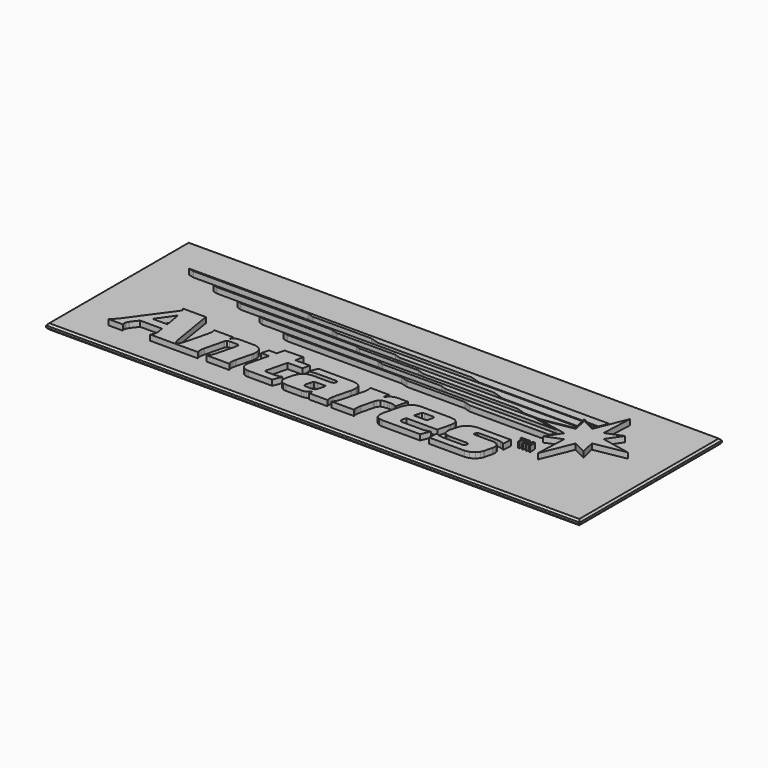
from build123d import *

# Parameters (mm, degrees)
F0_W     = 152.4
F0_H     = 50.8
F1_DEPTH = 1.5875
F3_DEPTH = 1.5875
F4_SIZE  = 0.508
F5_SIZE  = 0.508


with BuildPart() as f1:
    # F0 (on Top) → F1 (new body)
    with BuildSketch(Plane.XY):
        Rectangle(F0_W, F0_H)
    extrude(amount=F1_DEPTH)

    # F2 (on face) → F3 (join)
    with BuildSketch(Plane.XY.offset(1.5875)):
        Polygon((-3.144647, -6.939077), (-3.535807, -6.939077), (-13.168503, -6.939077), (-14.176121, -9.447098), (-13.999591, -9.368536), (-13.172821, -9.105367), (-12.263247, -8.999245), (-11.958447, -8.999245), (-6.693281, -8.999245), (-6.522085, -8.999245), (-6.008243, -9.159088), (-5.935091, -9.553219), (-5.964047, -9.67171), (-5.995797, -9.794392), (-6.264529, -10.192639), (-6.837807, -10.344226), (-7.028053, -10.344226), (-11.844147, -10.344226), (-12.225909, -10.344226), (-13.369671, -10.531627), (-14.451457, -11.110392), (-15.188819, -12.101195), (-15.595219, -13.159537), (-15.684881, -13.524713), (-15.875127, -14.286789), (-15.961741, -14.634032), (-16.088487, -15.710281), (-15.844647, -16.70111), (-15.053691, -17.279874), (-13.980287, -17.468672), (-13.621893, -17.468672), (-9.858375, -17.468672), (-9.629775, -17.468672), (-8.943721, -17.417694), (-8.288909, -17.238548), (-7.809357, -16.881627), (-7.499477, -16.455822), (-7.416419, -16.302838), (-7.372477, -16.302838), (-7.393305, -17.468672), (-2.107057, -17.468672), (-2.146935, -17.387367), (-2.236597, -17.131055), (-2.297303, -16.7259), (-2.268347, -16.198113), (-2.173097, -15.668955), (-2.129155, -15.496692), (-0.983869, -10.903687), (-0.872363, -10.454462), (-0.723519, -9.064015), (-1.040257, -7.837551), (-1.967865, -7.151294), align=None)
        Polygon((-9.130919, -12.40851), (-8.998585, -12.405741), (-6.646291, -12.405741), (-7.020941, -13.906424), (-7.072249, -14.107617), (-7.254113, -14.707083), (-7.515987, -15.160447), (-7.902829, -15.360269), (-8.361807, -15.407107), (-8.514969, -15.407107), (-9.746869, -15.407107), (-9.873615, -15.402992), (-10.252837, -15.364384), (-10.568305, -15.236266), (-10.697591, -14.96888), (-10.671429, -14.621662), (-10.643997, -14.511401), (-10.341991, -13.301497), (-10.313035, -13.182956), (-10.166985, -12.842596), (-9.903841, -12.575261), (-9.525127, -12.447092), align=None, mode=Mode.SUBTRACT)
        Polygon((16.798163, -14.33228), (17.044797, -13.345592), (25.894665, -13.345592), (26.699591, -10.119614), (26.784935, -9.772345), (26.911681, -8.696071), (26.667841, -7.705268), (25.875615, -7.126503), (24.801957, -6.939077), (24.445087, -6.939077), (16.402685, -6.939077), (16.020923, -6.939077), (14.877415, -7.126503), (13.796645, -7.705268), (13.058521, -8.696071), (12.651613, -9.754413), (12.561951, -10.119614), (11.523091, -14.286789), (11.436223, -14.632661), (11.309731, -15.708909), (11.553571, -16.699713), (12.344273, -17.279874), (13.417931, -17.468672), (13.776325, -17.468672), (24.305641, -17.468672), (25.335103, -14.959254), (25.098375, -15.054326), (24.103203, -15.325827), (23.143845, -15.407107), (22.825837, -15.407107), (17.740757, -15.407107), (17.607153, -15.407107), (17.210151, -15.345131), (16.886301, -15.154935), (16.754221, -14.821459), (16.772001, -14.450771), align=None)
        Polygon((21.613241, -9.850857), (21.254847, -11.285398), (17.558893, -11.285398), (17.915763, -9.850857), (17.953101, -9.699269), (18.241137, -9.197696), (18.727547, -8.999245), (18.890107, -8.999245), (21.063331, -8.999245), (21.199729, -8.999245), (21.613241, -9.197696), (21.650325, -9.699269), align=None, mode=Mode.SUBTRACT)
        Polygon((-60.262999, -15.586253), (-58.809204, -13.614298), (-52.512925, -13.614298), (-52.187704, -15.451201), (-52.173937, -15.529763), (-52.23317, -16.443401), (-52.253845, -16.527475), (-52.274521, -16.606012), (-52.406804, -16.913327), (-52.701723, -17.33362), (-52.802307, -17.468672), (-45.635139, -17.468672), (-45.621528, -17.452069), (-45.70128, -17.33362), (-46.078851, -16.557777), (-46.342071, -15.68135), (-46.373771, -15.496692), (-48.396728, -3.130194), (-54.872128, -3.130194), (-54.446322, -3.93634), (-62.392077, -14.869693), (-62.522989, -15.050211), (-62.924004, -15.58351), (-63.409068, -16.167811), (-63.956159, -16.753459), (-64.49634, -17.290898), (-64.676858, -17.468672), (-60.621316, -17.468672), (-60.664039, -17.344644), (-60.759111, -16.953281), (-60.709505, -16.560546), (-60.677781, -16.437889), (-60.659874, -16.364864), (-60.314002, -15.652394), align=None)
        Polygon((-53.693924, -6.400267), (-52.861566, -11.239932), (-57.096279, -11.239932), align=None, mode=Mode.SUBTRACT)
        Polygon((-45.621528, -17.452069), (-45.610348, -17.468672), (-39.181659, -17.468672), (-39.216203, -17.36946), (-39.307135, -17.067657), (-39.375969, -16.603269), (-39.344473, -15.965246), (-39.217727, -15.274823), (-39.161085, -15.04884), (-37.871273, -9.872904), (-37.831395, -9.710318), (-37.508815, -9.192158), (-36.961699, -8.999245), (-36.778565, -8.999245), (-34.851975, -8.999245), (-34.695003, -8.999245), (-34.220785, -9.192158), (-34.157539, -9.713062), (-34.196147, -9.872904), (-35.487229, -15.04884), (-35.545141, -15.280361), (-35.762819, -15.965246), (-36.049585, -16.603269), (-36.349813, -17.067657), (-36.591113, -17.36946), (-36.672393, -17.468672), (-30.220285, -17.468672), (-30.254829, -17.36946), (-30.346015, -17.067657), (-30.414849, -16.603269), (-30.383099, -15.965246), (-30.256353, -15.274823), (-30.199457, -15.04884), (-29.133165, -10.770032), (-29.038169, -10.38418), (-28.935807, -9.178392), (-29.261181, -7.971231), (-30.163897, -7.206412), (-31.313247, -6.939077), (-31.695009, -6.939077), (-35.973639, -6.939077), (-36.217733, -6.939077), (-36.945189, -7.284974), (-37.518467, -7.900949), (-37.613463, -8.036001), (-37.658929, -8.036001), (-37.541835, -6.939077), (-43.008601, -6.939077), (-42.976876, -7.036943), (-42.885944, -7.338695), (-42.815662, -7.803083), (-42.847387, -8.441131), (-42.972761, -9.131554), (-43.029276, -9.358909), (-44.448628, -15.04884), (-44.50654, -15.280361), (-44.724269, -15.965246), (-45.010908, -16.603269), (-45.31266, -17.067657), (-45.553808, -17.36946), align=None)
        Polygon((-19.229197, -4.652924), (-24.549735, -4.787976), (-25.087199, -6.939077), (-27.349831, -6.939077), (-27.863927, -8.999245), (-25.601041, -8.999245), (-26.891107, -14.17513), (-26.946225, -14.394256), (-27.049603, -15.068118), (-27.042491, -15.794355), (-26.889837, -16.369005), (-26.609929, -16.804462), (-26.219785, -17.117263), (-25.738963, -17.322597), (-25.185243, -17.43423), (-24.729059, -17.468672), (-24.575897, -17.468672), (-17.944719, -17.468672), (-16.993997, -15.003348), (-17.062831, -15.030907), (-17.713325, -15.247264), (-18.677763, -15.407107), (-18.998819, -15.407107), (-20.858099, -15.407107), (-20.997291, -15.407107), (-21.410549, -15.368549), (-21.694521, -15.233472), (-21.771737, -14.971674), (-21.724747, -14.657451), (-21.698585, -14.555495), (-20.313777, -8.999245), (-16.102457, -8.999245), (-15.587091, -6.939077), (-19.799681, -6.939077), align=None)
        Polygon((6.680581, -8.640953), (6.925945, -6.939077), (1.639697, -6.939077), (1.671447, -7.036943), (1.762379, -7.338695), (1.831213, -7.803083), (1.799971, -8.441131), (1.674241, -9.131554), (1.617853, -9.358909), (0.198247, -15.04884), (0.140335, -15.280361), (-0.077343, -15.965246), (-0.362331, -16.603269), (-0.664337, -17.067657), (-0.905129, -17.36946), (-0.986663, -17.468672), (5.465191, -17.468672), (5.432171, -17.36946), (5.341493, -17.067657), (5.272151, -16.603269), (5.303901, -15.965246), (5.429631, -15.274823), (5.486019, -15.04884), (6.330569, -11.665763), (6.386957, -11.438357), (6.646291, -10.779658), (7.149465, -10.231222), (7.975981, -9.950094), (8.942197, -9.872904), (9.264523, -9.872904), (9.500235, -9.872904), (10.208387, -9.899117), (10.799699, -9.987305), (11.202035, -10.147173), (11.484737, -10.324922), (11.576685, -10.388321), (12.438253, -6.939077), (9.861169, -6.939077), (9.595231, -6.939077), (8.797163, -7.028637), (7.989697, -7.319442), (7.335393, -7.845806), (6.862699, -8.431505), (6.726047, -8.640953), align=None)
        Polygon((39.136193, -10.07552), (38.784657, -10.07552), (34.213673, -10.07552), (34.081593, -10.07552), (33.686115, -9.976282), (33.577403, -9.754413), (33.592643, -9.693758), (33.704149, -9.24593), (33.719135, -9.183903), (33.939607, -8.962034), (34.371153, -8.865591), (34.515679, -8.865591), (38.615493, -8.865591), (38.849681, -8.865591), (39.556563, -8.901405), (40.448103, -9.018549), (41.163621, -9.23351), (41.517443, -9.453982), (41.579419, -9.560103), (41.784651, -6.939077), (32.689673, -6.939077), (32.334073, -6.939077), (31.267781, -7.132015), (30.078553, -7.677709), (29.192347, -8.525205), (28.751403, -9.336862), (28.679775, -9.626244), (28.172537, -11.665763), (28.125801, -11.897258), (28.071953, -12.608306), (28.285821, -13.418617), (29.000831, -13.983614), (30.054931, -14.197203), (30.407737, -14.197203), (35.000819, -14.197203), (35.130359, -14.197203), (35.518979, -14.317091), (35.580701, -14.654708), (35.556063, -14.756689), (35.499675, -14.981301), (35.472243, -15.087422), (35.243135, -15.419527), (34.809303, -15.540787), (34.666047, -15.540787), (30.208093, -15.540787), (29.918787, -15.540787), (29.050615, -15.509088), (28.258135, -15.405735), (27.653107, -15.219705), (27.208099, -15.011603), (27.064843, -14.935835), (26.837259, -17.468672), (36.649025, -17.468672), (37.034597, -17.468672), (38.195123, -17.223384), (39.331773, -16.582593), (40.088693, -15.691002), (40.437181, -14.949627), (40.501951, -14.690547), (41.026969, -12.583516), (41.071165, -12.354763), (41.121965, -11.651971), (40.907081, -10.849966), (40.190547, -10.287711), align=None)
        Polygon((-31.661735, 12.43744), (-29.783659, 11.879402), (-13.099669, 11.879402), (-10.712831, 11.133912), (16.116173, 11.133912), (18.818479, 10.29749), (48.527843, 10.29749), (48.522001, 10.322128), (48.353853, 11.038916), (49.013999, 10.715066), (49.864391, 10.29749), (52.985543, 10.29876), (54.005353, 12.80955), (-65.937765, 12.80955), (-64.415035, 12.43744), align=None)
        Polygon((46.902751, 0.339725), (47.906051, 1.827987), (-30.197171, 1.827987), (-28.748609, 1.457325), (3.896995, 1.457325), (5.793359, 0.897814), (22.387687, 0.897814), (24.250523, 0.339725), align=None)
        Polygon((-22.610953, 9.645726), (-20.709255, 9.040698), (-3.912235, 9.040698), (-2.240915, 8.528126), (24.688673, 8.528126), (27.858593, 7.505522), (49.184941, 7.505522), (48.593629, 10.017582), (-56.732475, 10.017582), (-55.388866, 9.645726), align=None)
        Polygon((-5.140071, 4.24782), (-3.401187, 3.689731), (13.408279, 3.689731), (15.202535, 3.131617), (46.625891, 3.131617), (40.792781, 4.280916), (39.068629, 4.619904), (-39.200963, 4.619904), (-38.047549, 4.24782), align=None)
        Polygon((-13.325475, 6.828866), (-12.041251, 6.387922), (4.672965, 6.387922), (6.751193, 5.737428), (33.586801, 5.737428), (36.256087, 4.923079), (40.566721, 4.923079), (40.796845, 4.96443), (49.415065, 6.52432), (49.249457, 7.227138), (-47.60021, 7.227138), (-46.36549, 6.853758), align=None)
        Polygon((65.937765, 4.622648), (57.686321, 6.24746), (60.520707, 10.402138), (55.900193, 8.545906), (56.270779, 17.468672), (52.650771, 8.545906), (48.861091, 10.402138), (49.837975, 6.24746), (40.860091, 4.622648), (49.112043, 2.996565), (46.335315, -1.126515), (50.896393, 0.697992), (50.525807, -8.22894), (54.147085, 0.697992), (57.891553, -1.126515), (56.959881, 2.996565), align=None)
        Polygon((50.437669, 10.017582), (52.468653, 9.022664), (52.872513, 10.017582), align=None)
        Polygon((44.543853, -4.972609), (44.543853, -4.652924), (42.934001, -4.652924), (42.934001, -4.972609), (43.544871, -4.972609), (43.544871, -6.582156), (43.927903, -6.582156), (43.927903, -4.972609), align=None)
        Polygon((-45.621528, -17.452069), (-45.635139, -17.468672), (-45.610348, -17.468672), align=None)
        Polygon((46.557057, -5.446674), (46.628685, -6.582156), (47.011971, -6.582156), (46.861603, -4.652924), (46.309153, -4.652924), (45.975397, -5.610657), (45.964475, -5.643728), (45.853985, -6.043371), (45.841793, -6.086094), (45.834935, -6.086094), (45.821219, -6.035065), (45.719365, -5.632704), (45.706665, -5.595468), (45.373163, -4.652924), (44.798615, -4.652924), (44.656629, -6.582156), (45.025945, -6.582156), (45.096303, -5.446674), (45.097573, -5.40258), (45.111543, -5.042891), (45.111543, -4.90921), (45.132371, -4.90921), (45.141769, -4.950562), (45.257593, -5.41909), (45.266991, -5.454929), (45.614463, -6.553225), (46.011465, -6.553225), (46.358429, -5.482488), (46.370875, -5.438394), (46.508797, -4.950562), (46.521243, -4.90921), (46.543341, -4.90921), (46.544357, -4.960239), (46.554263, -5.409463), align=None)
    extrude(amount=F3_DEPTH)

    # F4
    f4_edges = [f1.edges().sort_by_distance(p)[0] for p in [
        (-76.2, 0, 1.5875),
        (0, 25.4, 1.5875),
        (76.2, 0, 1.5875),
        (0, -25.4, 1.5875),
    ]]
    chamfer(f4_edges, length=F4_SIZE)

    # F5
    f5_edges = [f1.edges().sort_by_distance(p)[0] for p in [
        (-76.2, 0, 0),
        (0, -25.4, 0),
        (76.2, 0, 0),
        (0, 25.4, 0),
    ]]
    chamfer(f5_edges, length=F5_SIZE)


solid = f1.part
